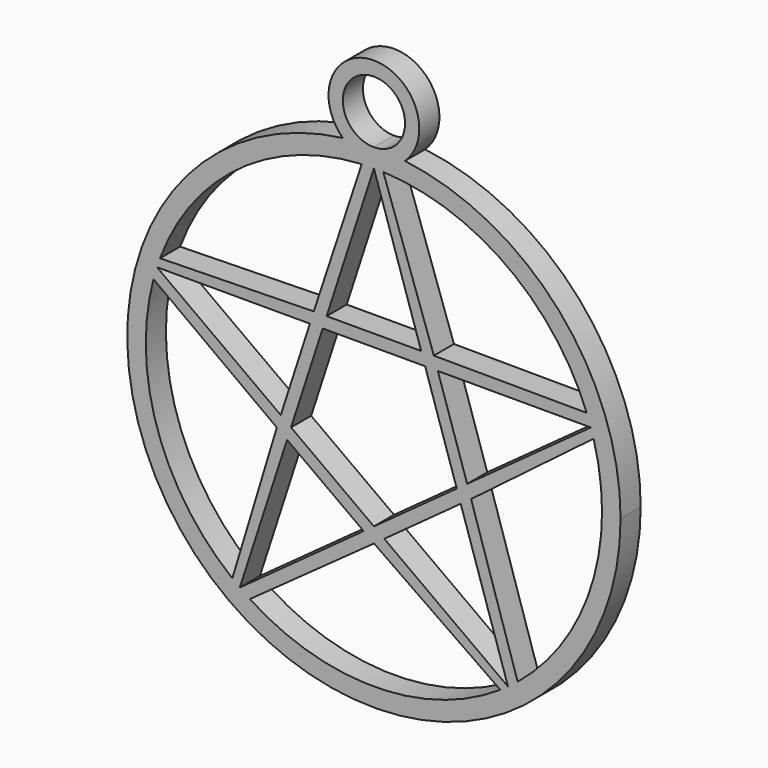
from build123d import *

# Parameters (mm, degrees)
F1_DEPTH = 6.35


with BuildPart() as f1:
    # F0 (on Front) → F1 (new body)
    with BuildSketch(Plane.XZ):
        with BuildLine():
            ThreePointArc((-7.8402373447, 61.7634878521), (-41.1586655068, -46.7136169332), (62.2591178325, 0))
            ThreePointArc((62.2591178325, 0), (46.7136169332, 41.1586655068), (7.8402373447, 61.7634878521))
            ThreePointArc((7.8402373447, 61.7634878521), (0, 58.6588690032), (-7.8402373447, 61.7634878521))
        make_face()
        with BuildLine():
            ThreePointArc((55.4505510699, 15.5277837924), (57.0478759304, 7.8368064468), (57.5836407625, 0))
            ThreePointArc((57.5836407625, 0), (51.9864857424, -24.7645105668), (36.2831125051, -44.7147786576))
            ThreePointArc((36.2831125051, -44.7147786576), (35.0774454381, -45.6667111252), (33.8468148135, -46.5861439748))
            ThreePointArc((33.8468148135, -46.5861439748), (32.8818393757, -47.27219397), (31.9029625874, -47.9382588504))
            ThreePointArc((31.9029625874, -47.9382588504), (0.3521951536, -57.582563698), (-31.3141832441, -48.3249170844))
            ThreePointArc((-31.3141832441, -48.3249170844), (-32.5920964338, -47.4724228738), (-33.8468148135, -46.5861439748))
            ThreePointArc((-33.8468148135, -46.5861439748), (-34.7974809413, -45.8803989041), (-35.7334358491, -45.1552571234))
            ThreePointArc((-35.7334358491, -45.1552571234), (-54.6554381422, -18.1289482582), (-55.6363420799, 14.848337396))
            ThreePointArc((-55.6363420799, 14.848337396), (-55.2204687988, 16.3271402609), (-54.7652967791, 17.7943235936))
            ThreePointArc((-54.7652967791, 17.7943235936), (-54.3878653203, 18.9165480298), (-53.987440477, 20.0307751774))
            ThreePointArc((-53.987440477, 20.0307751774), (-34.1311135955, 46.3782574941), (-3.070967171, 57.5016942715))
            ThreePointArc((-3.070967171, 57.5016942715), (-1.5360301586, 57.5631504942), (0, 57.5836407625))
            ThreePointArc((0, 57.5836407625), (1.1839315978, 57.5714685364), (2.3673626687, 57.534957004))
            ThreePointArc((2.3673626687, 57.534957004), (33.5612498663, 46.7922877286), (53.7383799899, 20.6896640745))
            ThreePointArc((53.7383799899, 20.6896640745), (54.2711499531, 19.248843244), (54.7652967791, 17.7943235936))
            ThreePointArc((54.7652967791, 17.7943235936), (55.1195752881, 16.6645763079), (55.4505510699, 15.5277837924))
        make_face(mode=Mode.SUBTRACT)
        with BuildLine():
            ThreePointArc((3.19e-08, 62.2591178325), (3.9279438387, 62.1350867906), (7.8402373447, 61.7634878521))
            ThreePointArc((7.8402373447, 61.7634878521), (10.5103201859, 65.5632316042), (11.4519661318, 70.110835135))
            ThreePointArc((11.4519661318, 70.110835135), (-4.5476035308, 80.6211553209), (-7.8402373447, 61.7634878521))
            ThreePointArc((-7.8402373447, 61.7634878521), (-3.9279438068, 62.1350867926), (3.19e-08, 62.2591178325))
        make_face()
        with BuildLine():
            ThreePointArc((7.8517173025, 70.110835135), (5.5520025598, 64.5588325977), (3.19e-08, 62.2591178325))
            ThreePointArc((3.19e-08, 62.2591178325), (-5.5520025598, 75.6628376722), (7.8517173025, 70.110835135))
        make_face(mode=Mode.SUBTRACT)
        with BuildLine():
            Line((16.1334199845, 17.7943235936), (54.7652967791, 17.7943235936))
            ThreePointArc((54.7652967791, 17.7943235936), (54.2711499531, 19.248843244), (53.7383799899, 20.6896640745))
            Line((53.7383799899, 20.6896640745), (15.1282112975, 20.8753324215))
            Line((15.1282112975, 20.8753324215), (16.1334199845, 17.7943235936))
        make_face()
        with BuildLine():
            ThreePointArc((33.8468148135, -46.5861439748), (35.0774454381, -45.6667111252), (36.2831125051, -44.7147786576))
            Line((36.2831125051, -44.7147786576), (24.5284953147, -7.9369514529))
            Line((24.5284953147, -7.9369514529), (21.9089083593, -9.8450458125))
            Line((21.9089083593, -9.8450458125), (33.8468148135, -46.5861439748))
        make_face()
        with BuildLine():
            Line((-11.9379064542, 20.8425426002), (0, 57.5836407625))
            ThreePointArc((0, 57.5836407625), (-1.5360301586, 57.5631504942), (-3.070967171, 57.5016942715))
            Line((-3.070967171, 57.5016942715), (-15.1787465438, 20.8386164159))
            Line((-15.1787465438, 20.8386164159), (-11.9379064542, 20.8425426002))
        make_face()
        with BuildLine():
            Line((-24.5091925682, -7.9963591979), (-23.5114519277, -4.9129238547))
            Line((-23.5114519277, -4.9129238547), (-54.7652967791, 17.7943235936))
            ThreePointArc((-54.7652967791, 17.7943235936), (-55.2204687988, 16.3271402609), (-55.6363420799, 14.848337396))
            Line((-55.6363420799, 14.848337396), (-24.5091925682, -7.9963591979))
        make_face()
        with BuildLine():
            ThreePointArc((-33.8468148135, -46.5861439748), (-32.5920964338, -47.4724228738), (-31.3141832441, -48.3249170844))
            Line((-31.3141832441, -48.3249170844), (0.0312324998, -25.7806381864))
            Line((0.0312324998, -25.7806381864), (-2.592969962, -23.8788965265))
            Line((-2.592969962, -23.8788965265), (-33.8468148135, -46.5861439748))
        make_face()
        with BuildLine():
            Line((24.5284953147, -7.9369514529), (55.4505510699, 15.5277837924))
            ThreePointArc((55.4505510699, 15.5277837924), (55.1195752881, 16.6645763079), (54.7652967791, 17.7943235936))
            Line((54.7652967791, 17.7943235936), (23.5360472008, -4.8950543427))
            Line((23.5360472008, -4.8950543427), (24.5284953147, -7.9369514529))
        make_face()
        with BuildLine():
            Line((15.1282112975, 20.8753324215), (2.3673626687, 57.534957004))
            ThreePointArc((2.3673626687, 57.534957004), (1.1839315978, 57.5714685364), (0, 57.5836407625))
            Line((0, 57.5836407625), (11.9285118958, 20.8714560779))
            Line((11.9285118958, 20.8714560779), (15.1282112975, 20.8753324215))
        make_face()
        with BuildLine():
            Line((-54.7652967791, 17.7943235936), (-16.1638214141, 17.7943235936))
            Line((-16.1638214141, 17.7943235936), (-15.1787465438, 20.8386164159))
            Line((-15.1787465438, 20.8386164159), (-53.987440477, 20.0307751774))
            ThreePointArc((-53.987440477, 20.0307751774), (-54.3878653203, 18.9165480298), (-54.7652967791, 17.7943235936))
        make_face()
        with BuildLine():
            ThreePointArc((-35.7334358491, -45.1552571234), (-34.7974809413, -45.8803989041), (-33.8468148135, -46.5861439748))
            Line((-33.8468148135, -46.5861439748), (-21.9183029177, -9.8739592902))
            Line((-21.9183029177, -9.8739592902), (-24.5091925682, -7.9963591979))
            Line((-24.5091925682, -7.9963591979), (-35.7334358491, -45.1552571234))
        make_face()
        with BuildLine():
            ThreePointArc((31.9029625874, -47.9382588504), (32.8818393757, -47.27219397), (33.8468148135, -46.5861439748))
            Line((33.8468148135, -46.5861439748), (2.6175652352, -23.8967660385))
            Line((2.6175652352, -23.8967660385), (0.0312324998, -25.7806381864))
            Line((0.0312324998, -25.7806381864), (31.9029625874, -47.9382588504))
        make_face()
        Polygon((23.5360472008, -4.8950543427), (16.1334199845, 17.7943235936), (12.9283328478, 17.7943235936), (20.9184819657, -6.7968268059), align=None)
        Polygon((2.6175652352, -23.8967660385), (21.9089083593, -9.8450458125), (20.9184819657, -6.7968268059), (0, -21.9949935753), align=None)
        Polygon((-12.9283328478, 17.7943235936), (12.9283328478, 17.7943235936), (11.9285118958, 20.8714560779), (-11.9379064542, 20.8425426002), align=None)
        Polygon((-20.9184819657, -6.7968268059), (-12.9283328478, 17.7943235936), (-16.1638214141, 17.7943235936), (-23.5114519277, -4.9129238547), align=None)
        Polygon((-2.592969962, -23.8788965265), (0, -21.9949935753), (-20.9184819657, -6.7968268059), (-21.9183029177, -9.8739592902), align=None)
        with BuildLine():
            ThreePointArc((-7.8402373447, 61.7634878521), (0, 58.6588690032), (7.8402373447, 61.7634878521))
            ThreePointArc((7.8402373447, 61.7634878521), (3.9279438387, 62.1350867906), (3.19e-08, 62.2591178325))
            ThreePointArc((3.19e-08, 62.2591178325), (-3.9279438068, 62.1350867926), (-7.8402373447, 61.7634878521))
        make_face()
        Polygon((21.9089083593, -9.8450458125), (24.5284953147, -7.9369514529), (23.5360472008, -4.8950543427), (20.9184819657, -6.7968268059), align=None)
        Polygon((12.9283328478, 17.7943235936), (16.1334199845, 17.7943235936), (15.1282112975, 20.8753324215), (11.9285118958, 20.8714560779), align=None)
        Polygon((-16.1638214141, 17.7943235936), (-12.9283328478, 17.7943235936), (-11.9379064542, 20.8425426002), (-15.1787465438, 20.8386164159), align=None)
        Polygon((-21.9183029177, -9.8739592902), (-20.9184819657, -6.7968268059), (-23.5114519277, -4.9129238547), (-24.5091925682, -7.9963591979), align=None)
        Polygon((0.0312324998, -25.7806381864), (2.6175652352, -23.8967660385), (0, -21.9949935753), (-2.592969962, -23.8788965265), align=None)
    extrude(amount=F1_DEPTH)


solid = f1.part
